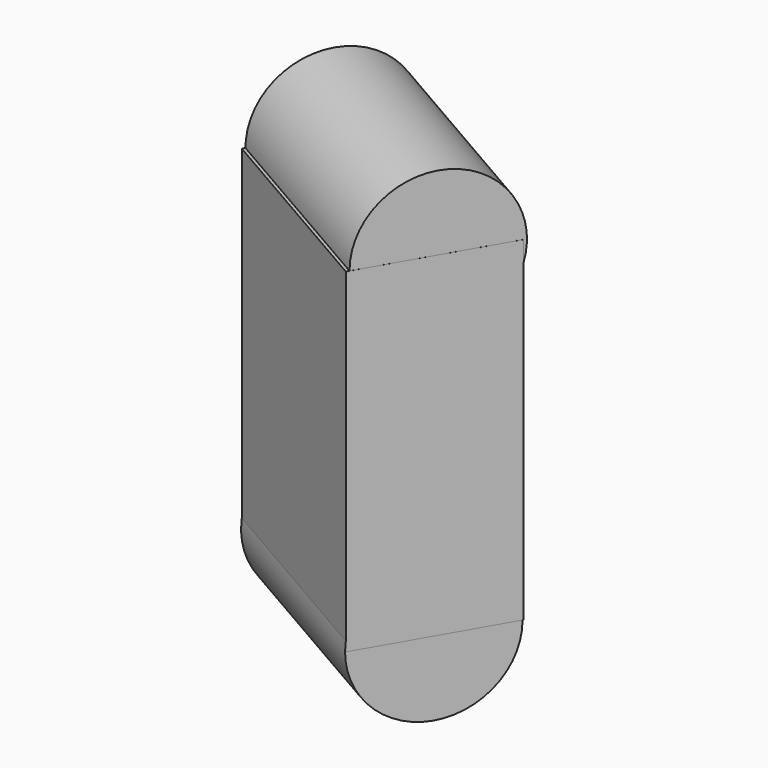
from build123d import *

# Parameters (mm, degrees)
CYLINDER006_R               = 2
CYLINDER006_DEPTH           = 6
CYLINDER006_PITCH_ANGLE     = -90
CYLINDER006_PLACEMENT_ANGLE = -30.000033
CYLINDER007_R               = 2
CYLINDER007_DEPTH           = 6
CYLINDER007_PITCH_ANGLE     = -90
CYLINDER007_PLACEMENT_ANGLE = -30.000033
BOX012_W                    = 6
BOX012_H                    = 4
BOX012_DEPTH                = 9
BOX012_PLACEMENT_ANGLE      = 30


with BuildPart() as cylinder006:
    # Cylinder006 → Cylinder006 (new body)
    with BuildSketch(Plane.XY):
        Circle(CYLINDER006_R)
    extrude(amount=CYLINDER006_DEPTH)


with BuildPart() as cylinder006_1:
    # Cylinder006 pitch: moved
    add(cylinder006.part.rotate(Axis((0, 0, 0), (0, 1, 0)), CYLINDER006_PITCH_ANGLE))


with BuildPart() as cylinder006_2:
    # Cylinder006 placement: moved
    add(cylinder006_1.part.moved(Location((12.102594, -9.316468, -1e-06))).rotate(Axis((12.102594, -9.316468, -1e-06), (0, 0, 1)), CYLINDER006_PLACEMENT_ANGLE))


with BuildPart() as cylinder007:
    # Cylinder007 → Cylinder007 (new body)
    with BuildSketch(Plane.XY):
        Circle(CYLINDER007_R)
    extrude(amount=CYLINDER007_DEPTH)


with BuildPart() as cylinder007_1:
    # Cylinder007 pitch: moved
    add(cylinder007.part.rotate(Axis((0, 0, 0), (0, 1, 0)), CYLINDER007_PITCH_ANGLE))


with BuildPart() as cylinder007_2:
    # Cylinder007 placement: moved
    add(cylinder007_1.part.moved(Location((12.15259, -9.229864, 8.999999))).rotate(Axis((12.15259, -9.229864, 8.999999), (0, 0, 1)), CYLINDER007_PLACEMENT_ANGLE))


with BuildPart() as fusion011:
    # Box012 → Box012 (new body)
    with BuildSketch(Plane.XY):
        with Locations((3, 2)):
            Rectangle(BOX012_W, BOX012_H)
    extrude(amount=BOX012_DEPTH)


with BuildPart() as fusion011_1:
    # Box012 placement: moved
    add(fusion011.part.moved(Location((5.915496, -8.034102, 0))).rotate(Axis((5.915496, -8.034102, 0), (0, 0, -1)), BOX012_PLACEMENT_ANGLE))

    # Fusion011: union Cylinder006, Cylinder007
    add(cylinder006_2.part)
    add(cylinder007_2.part)


solid = fusion011_1.part
